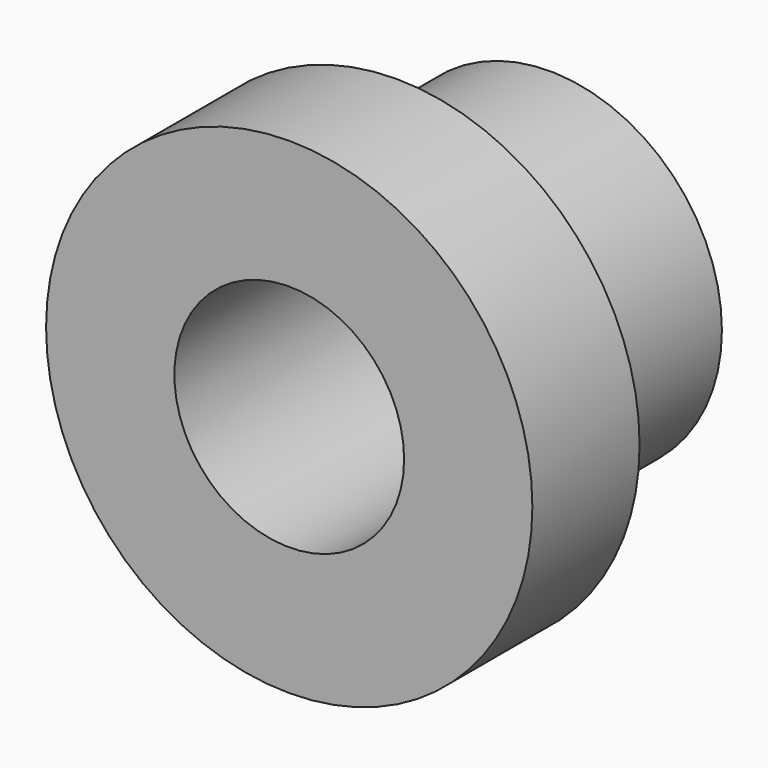
from build123d import *

# Parameters (mm, degrees)
F0_R     = 12.7
F1_DEPTH = 7
F2_R     = 9
F3_DEPTH = 10
F4_R     = 6
F5_DEPTH = 17.001
F7_D     = 5
F7_DEPTH = 12.701


with BuildPart() as f1:
    # F0 (on Front) → F1 (new body)
    with BuildSketch(Plane.XZ):
        Circle(F0_R)
    extrude(amount=F1_DEPTH)

    # F2 (on Front) → F3 (join)
    with BuildSketch(Plane.XZ):
        Circle(F2_R)
    extrude(amount=-F3_DEPTH)

    # F4 (on face) → F5 (cut, through all)
    with BuildSketch(Plane.XZ.offset(7)):
        Circle(F4_R)
    extrude(amount=-F5_DEPTH, mode=Mode.SUBTRACT)

    # F7 (through all, one way)
    with BuildSketch(Plane.XY):
        with Locations((0, 5)):
            Circle(F7_D / 2)
    extrude(amount=-F7_DEPTH, mode=Mode.SUBTRACT)


solid = f1.part
